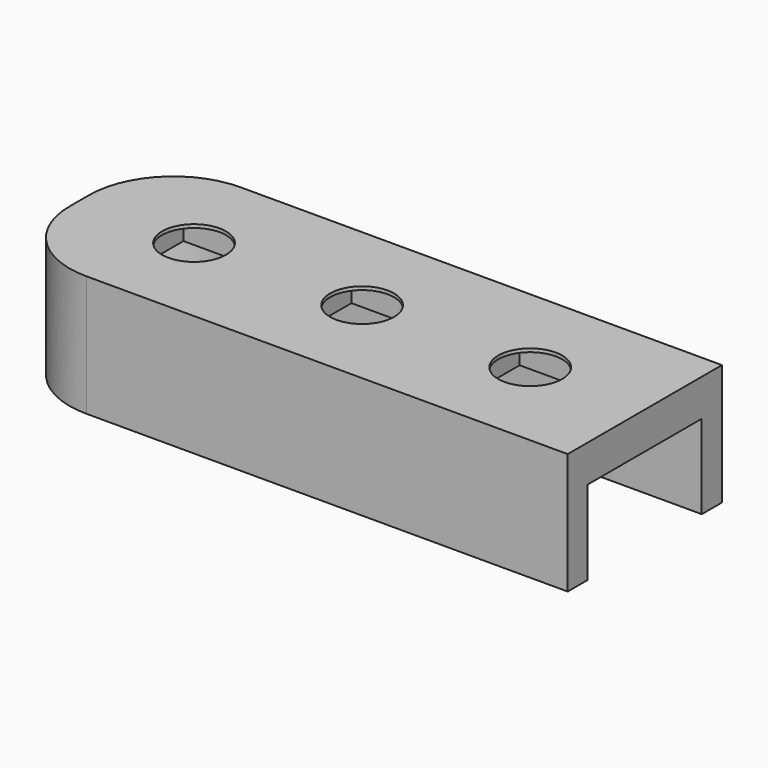
from build123d import *

# Parameters (mm, degrees)
F0_W     = 6.3
F0_H     = 6.3
F1_DEPTH = 2
F3_DEPTH = 5
F4_R     = 1.9
F5_DEPTH = 0.2


with BuildPart() as f1:
    # F0 (on Top) → F1 (new body)
    with BuildSketch(Plane.XY):
        with BuildLine():
            Line((21.733175, 5.734117), (-6.903563, 5.734117))
            ThreePointArc((-6.903563, 5.734117), (-10.439097, 4.269651), (-11.903563, 0.734117))
            Line((-11.903563, 0.734117), (-11.903563, -0.734117))
            ThreePointArc((-11.903563, -0.734117), (-10.439097, -4.269651), (-6.903563, -5.734117))
            Line((-6.903563, -5.734117), (21.733175, -5.734117))
            Line((21.733175, -5.734117), (21.733175, 5.734117))
        make_face()
        with Locations((-5.085194, 0)):
            Rectangle(F0_W, F0_H, mode=Mode.SUBTRACT)
        with Locations((4.914806, 0)):
            Rectangle(F0_W, F0_H, mode=Mode.SUBTRACT)
        with Locations((14.914806, 0)):
            Rectangle(F0_W, F0_H, mode=Mode.SUBTRACT)
    extrude(amount=F1_DEPTH)

    # F2 (on face) → F3 (join)
    with BuildSketch(Plane(origin=(0, 0, 0), x_dir=(1, 0, 0), z_dir=(0, 0, -1))):
        with BuildLine():
            Line((21.733175, 5.734117), (-6.903563, 5.734117))
            ThreePointArc((-6.903563, 5.734117), (-10.439097, 4.269651), (-11.903563, 0.734117))
            Line((-11.903563, 0.734117), (-11.903563, -0.734117))
            ThreePointArc((-11.903563, -0.734117), (-10.439097, -4.269651), (-6.903563, -5.734117))
            Line((-6.903563, -5.734117), (21.733175, -5.734117))
            Line((21.733175, -5.734117), (21.733175, -4.234117))
            Line((21.733175, -4.234117), (-5.403563, -4.234117))
            Line((-5.403563, -4.234117), (-6.638798, -4.234117))
            ThreePointArc((-6.638798, -4.234117), (-9.290064, -3.307969), (-10.413563, -0.734117))
            Line((-10.413563, -0.734117), (-10.413563, 0.734117))
            ThreePointArc((-10.413563, 0.734117), (-9.385508, 3.216062), (-6.903563, 4.244117))
            Line((-6.903563, 4.244117), (-5.403563, 4.244117))
            Line((-5.403563, 4.244117), (21.733175, 4.244117))
            Line((21.733175, 4.244117), (21.733175, 5.734117))
        make_face()
    extrude(amount=F3_DEPTH)

    # F4 (on face) → F5 (join)
    with BuildSketch(Plane.XY.offset(2)):
        with BuildLine():
            ThreePointArc((-11.903563, -0.734117), (-10.439097, -4.269651), (-6.903563, -5.734117))
            Line((-6.903563, -5.734117), (21.733175, -5.734117))
            Line((21.733175, -5.734117), (21.733175, 5.734117))
            Line((21.733175, 5.734117), (-6.903563, 5.734117))
            ThreePointArc((-6.903563, 5.734117), (-10.439097, 4.269651), (-11.903563, 0.734117))
            Line((-11.903563, 0.734117), (-11.903563, -0.734117))
        make_face()
        with Locations((-5.085194, 0)):
            Circle(F4_R, mode=Mode.SUBTRACT)
        with Locations((4.914806, 0)):
            Circle(F4_R, mode=Mode.SUBTRACT)
        with Locations((14.914806, 0)):
            Circle(F4_R, mode=Mode.SUBTRACT)
    extrude(amount=F5_DEPTH)


solid = f1.part
